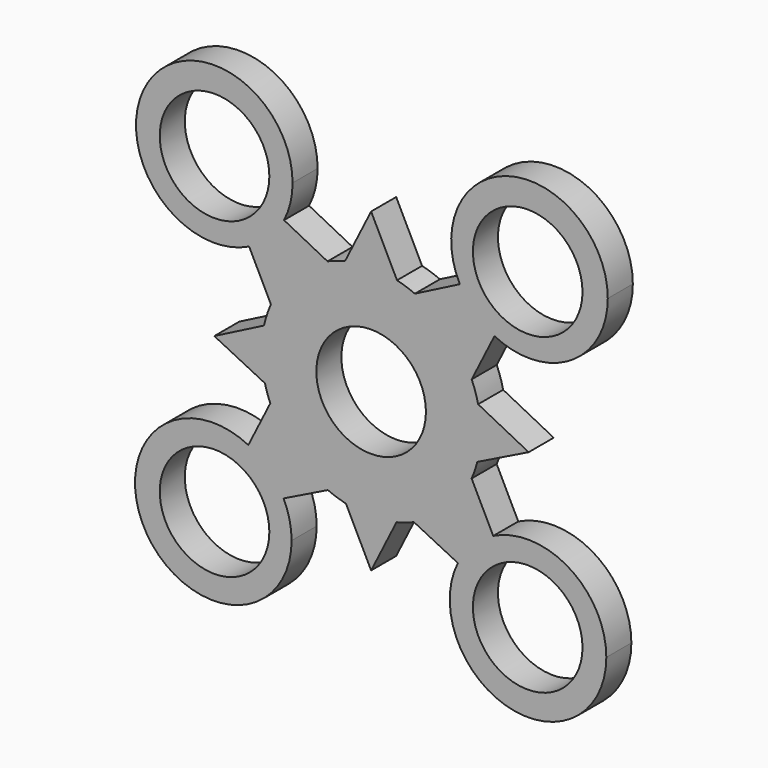
from build123d import *

# Parameters (mm, degrees)
F1_DEPTH = 6.35
F2_R     = 11.1125
F3_DEPTH = 6.351
F4_R     = 21.59
F5_DEPTH = 6.35
F6_R     = 11.1125
F7_DEPTH = 6.351


with BuildPart() as f1:
    # F0 (on Front) → F1 (new body)
    with BuildSketch(Plane.XZ):
        with BuildLine():
            ThreePointArc((21.5257779082, -5.5309592701), (22.0495015704, -2.787490896), (22.225, 0))
            ThreePointArc((22.225, 0), (22.0926198885, 2.4221419162), (21.6970565613, 4.8154295316))
            Line((21.6970565613, 4.8154295316), (19.0545663115, 6.1626660745))
            Line((19.0545663115, 6.1626660745), (15.9729558223, 0.0050951573))
            Line((15.9729558223, 0.0050951573), (19.2714315866, -6.6382280738))
            Line((19.2714315866, -6.6382280738), (21.5257779082, -5.5309592701))
        make_face()
        with BuildLine():
            ThreePointArc((21.6970565613, 4.8154295316), (22.0926198885, 2.4221419162), (22.225, 0))
            ThreePointArc((22.225, 0), (22.0495015704, -2.787490896), (21.5257779082, -5.5309592701))
            Line((21.5257779082, -5.5309592701), (31.9489983919, -0.411379033))
            Line((31.9489983919, -0.411379033), (21.6970565613, 4.8154295316))
        make_face()
        with BuildLine():
            Line((19.0545663115, 6.1626660745), (21.6970565613, 4.8154295316))
            ThreePointArc((21.6970565613, 4.8154295316), (21.1407372397, 6.8571024464), (20.3927661329, 8.836612159))
            Line((20.3927661329, 8.836612159), (19.0545663115, 6.1626660745))
        make_face()
        with BuildLine():
            ThreePointArc((20.3788557045, -8.8686450586), (21.0186730351, -7.2226040208), (21.5257779082, -5.5309592701))
            Line((21.5257779082, -5.5309592701), (19.2714315866, -6.6382280738))
            Line((19.2714315866, -6.6382280738), (20.3788557045, -8.8686450586))
        make_face()
        with BuildLine():
            Line((19.0545663115, 6.1626660745), (20.3927661329, 8.836612159))
            ThreePointArc((20.3927661329, 8.836612159), (18.3482240517, 12.5416625352), (15.6384904833, 15.7920309144))
            Line((15.6384904833, 15.7920309144), (10.6233306163, 10.7795534064))
            Line((10.6233306163, 10.7795534064), (10.8349616789, 10.3533160607))
            Line((10.8349616789, 10.3533160607), (19.0545663115, 6.1626660745))
        make_face()
        with BuildLine():
            ThreePointArc((15.6384904833, 15.7920309144), (18.3482240517, 12.5416625352), (20.3927661329, 8.836612159))
            Line((20.3927661329, 8.836612159), (25.0104148101, 18.0634431618))
            ThreePointArc((25.0104148101, 18.0634431618), (22.8287799548, 19.3843441725), (20.8868182159, 21.0375515781))
            Line((20.8868182159, 21.0375515781), (15.6384904833, 15.7920309144))
        make_face()
        with BuildLine():
            Line((24.7600884642, -17.6927042464), (20.3788557045, -8.8686450586))
            ThreePointArc((20.3788557045, -8.8686450586), (18.3698756369, -12.509927821), (15.7177018967, -15.7131942038))
            Line((15.7177018967, -15.7131942038), (20.628024747, -20.6528413462))
            ThreePointArc((20.628024747, -20.6528413462), (22.5748134031, -19.0063208739), (24.7600884642, -17.6927042464))
        make_face()
        with BuildLine():
            ThreePointArc((15.7177018967, -15.7131942038), (18.3698756369, -12.509927821), (20.3788557045, -8.8686450586))
            Line((20.3788557045, -8.8686450586), (19.2714315866, -6.6382280738))
            Line((19.2714315866, -6.6382280738), (10.8220572797, -10.7883129526))
            Line((10.8220572797, -10.7883129526), (15.7177018967, -15.7131942038))
        make_face()
        with BuildLine():
            Line((10.6233306163, 10.7795534064), (15.6384904833, 15.7920309144))
            ThreePointArc((15.6384904833, 15.7920309144), (12.4668681814, 18.3991255974), (8.8698123462, 20.3783476745))
            Line((8.8698123462, 20.3783476745), (6.4671831136, 19.1502777135))
            Line((6.4671831136, 19.1502777135), (10.6233306163, 10.7795534064))
        make_face()
        with BuildLine():
            ThreePointArc((8.8698123462, 20.3783476745), (12.4668681814, 18.3991255974), (15.6384904833, 15.7920309144))
            Line((15.6384904833, 15.7920309144), (20.8868182159, 21.0375515781))
            ThreePointArc((20.8868182159, 21.0375515781), (19.2767105193, 22.9222920615), (17.9796318988, 25.0347031334))
            Line((17.9796318988, 25.0347031334), (8.8698123462, 20.3783476745))
        make_face()
        with BuildLine():
            Line((32.1151407006, 32.2598685929), (25.0104148101, 18.0634431618))
            ThreePointArc((25.0104148101, 18.0634431618), (40.4586442059, 18.7542558984), (47.9901407006, 32.2598685929))
            ThreePointArc((47.9901407006, 32.2598685929), (28.3993350831, 47.6938704594), (17.9796318988, 25.0347031334))
            Line((17.9796318988, 25.0347031334), (32.1151407006, 32.2598685929))
        make_face()
        with BuildLine():
            ThreePointArc((20.8868182159, 21.0375515781), (22.8287799548, 19.3843441725), (25.0104148101, 18.0634431618))
            Line((25.0104148101, 18.0634431618), (32.1151407006, 32.2598685929))
            Line((32.1151407006, 32.2598685929), (20.8868182159, 21.0375515781))
        make_face()
        with BuildLine():
            Line((20.628024747, -20.6528413462), (15.7177018967, -15.7131942038))
            ThreePointArc((15.7177018967, -15.7131942038), (12.4300167123, -18.4240416177), (8.6854055581, -20.4576234028))
            Line((8.6854055581, -20.4576234028), (17.5930772423, -24.8678233961))
            ThreePointArc((17.5930772423, -24.8678233961), (18.9370013071, -22.6353699906), (20.628024747, -20.6528413462))
        make_face()
        with BuildLine():
            ThreePointArc((8.6854055581, -20.4576234028), (12.4300167123, -18.4240416177), (15.7177018967, -15.7131942038))
            Line((15.7177018967, -15.7131942038), (10.8220572797, -10.7883129526))
            Line((10.8220572797, -10.7883129526), (10.4895712426, -10.9516203438))
            Line((10.4895712426, -10.9516203438), (6.3186403483, -19.2858348275))
            Line((6.3186403483, -19.2858348275), (8.6854055581, -20.4576234028))
        make_face()
        with BuildLine():
            Line((31.8198764616, -31.9115304439), (24.7600884642, -17.6927042464))
            ThreePointArc((24.7600884642, -17.6927042464), (22.5748134031, -19.0063208739), (20.628024747, -20.6528413462))
            Line((20.628024747, -20.6528413462), (31.8198764616, -31.9115304439))
        make_face()
        with BuildLine():
            ThreePointArc((47.6948764616, -31.9115304439), (40.1847282398, -18.4191296297), (24.7600884642, -17.6927042464))
            Line((24.7600884642, -17.6927042464), (31.8198764616, -31.9115304439))
            Line((31.8198764616, -31.9115304439), (17.5930772423, -24.8678233961))
            ThreePointArc((17.5930772423, -24.8678233961), (28.2028896359, -47.3689892034), (47.6948764616, -31.9115304439))
        make_face()
        with BuildLine():
            Line((6.4671831136, 19.1502777135), (8.8698123462, 20.3783476745))
            ThreePointArc((8.8698123462, 20.3783476745), (7.0876895336, 21.0645503649), (5.2532383322, 21.5952335487))
            Line((5.2532383322, 21.5952335487), (6.4671831136, 19.1502777135))
        make_face()
        with BuildLine():
            ThreePointArc((17.9796318988, 25.0347031334), (19.2767105193, 22.9222920615), (20.8868182159, 21.0375515781))
            Line((20.8868182159, 21.0375515781), (32.1151407006, 32.2598685929))
            Line((32.1151407006, 32.2598685929), (17.9796318988, 25.0347031334))
        make_face()
        with BuildLine():
            ThreePointArc((5.1505038225, -21.619966128), (6.9423236203, -21.1129052418), (8.6854055581, -20.4576234028))
            Line((8.6854055581, -20.4576234028), (6.3186403483, -19.2858348275))
            Line((6.3186403483, -19.2858348275), (5.1505038225, -21.619966128))
        make_face()
        with BuildLine():
            Line((31.8198764616, -31.9115304439), (20.628024747, -20.6528413462))
            ThreePointArc((20.628024747, -20.6528413462), (18.9370013071, -22.6353699906), (17.5930772423, -24.8678233961))
            Line((17.5930772423, -24.8678233961), (31.8198764616, -31.9115304439))
        make_face()
        with BuildLine():
            Line((6.4671831136, 19.1502777135), (5.2532383322, 21.5952335487))
            ThreePointArc((5.2532383322, 21.5952335487), (-0.0218444781, 22.2249892648), (-5.2956791501, 21.5848652379))
            Line((-5.2956791501, 21.5848652379), (-6.4940514809, 19.1882700525))
            Line((-6.4940514809, 19.1882700525), (0.0320288973, 15.8610396236))
            Line((0.0320288973, 15.8610396236), (6.4671831136, 19.1502777135))
        make_face()
        with BuildLine():
            ThreePointArc((-5.2956791501, 21.5848652379), (-0.0218444781, 22.2249892648), (5.2532383322, 21.5952335487))
            Line((5.2532383322, 21.5952335487), (0, 32.1755629932))
            Line((0, 32.1755629932), (-5.2956791501, 21.5848652379))
        make_face()
        with BuildLine():
            Line((0, -31.9115304439), (5.1505038225, -21.619966128))
            ThreePointArc((5.1505038225, -21.619966128), (0.0213004103, -22.2249897929), (-5.1090532865, -21.6297988783))
            Line((-5.1090532865, -21.6297988783), (0, -31.9115304439))
        make_face()
        with BuildLine():
            ThreePointArc((-5.1090532865, -21.6297988783), (0.0213004103, -22.2249897929), (5.1505038225, -21.619966128))
            Line((5.1505038225, -21.619966128), (6.3186403483, -19.2858348275))
            Line((6.3186403483, -19.2858348275), (-0.054424676, -16.1305219328))
            Line((-0.054424676, -16.1305219328), (-6.3139432909, -19.2050139139))
            Line((-6.3139432909, -19.2050139139), (-5.1090532865, -21.6297988783))
        make_face()
        with BuildLine():
            Line((-6.4940514809, 19.1882700525), (-5.2956791501, 21.5848652379))
            ThreePointArc((-5.2956791501, 21.5848652379), (-7.096810048, 21.0614793436), (-8.8473961867, 20.3880898006))
            Line((-8.8473961867, 20.3880898006), (-6.4940514809, 19.1882700525))
        make_face()
        with BuildLine():
            Line((-10.6715967815, 10.8337005282), (-6.4940514809, 19.1882700525))
            Line((-6.4940514809, 19.1882700525), (-8.8473961867, 20.3880898006))
            ThreePointArc((-8.8473961867, 20.3880898006), (-12.4455878153, 18.4135267923), (-15.6193303309, 15.8109817853))
            Line((-15.6193303309, 15.8109817853), (-10.6715967815, 10.8337005282))
        make_face()
        with BuildLine():
            ThreePointArc((-8.781015481, -20.4167674259), (-6.9714678453, -21.1032997676), (-5.1090532865, -21.6297988783))
            Line((-5.1090532865, -21.6297988783), (-6.3139432909, -19.2050139139))
            Line((-6.3139432909, -19.2050139139), (-8.781015481, -20.4167674259))
        make_face()
        with BuildLine():
            Line((-8.781015481, -20.4167674259), (-6.3139432909, -19.2050139139))
            Line((-6.3139432909, -19.2050139139), (-10.3826021382, -11.0170276563))
            Line((-10.3826021382, -11.0170276563), (-10.9191345383, -10.7513897577))
            Line((-10.9191345383, -10.7513897577), (-15.8003951401, -15.6300396166))
            ThreePointArc((-15.8003951401, -15.6300396166), (-12.5215665079, -18.361944265), (-8.781015481, -20.4167674259))
        make_face()
        with BuildLine():
            ThreePointArc((-15.6193303309, 15.8109817853), (-12.4455878153, 18.4135267923), (-8.8473961867, 20.3880898006))
            Line((-8.8473961867, 20.3880898006), (-17.6608186057, 24.8814894457))
            ThreePointArc((-17.6608186057, 24.8814894457), (-18.9756819297, 22.7402956748), (-20.6119186423, 20.8333856755))
            Line((-20.6119186423, 20.8333856755), (-15.6193303309, 15.8109817853))
        make_face()
        with BuildLine():
            Line((-15.8003951401, -15.6300396166), (-10.9191345383, -10.7513897577))
            Line((-10.9191345383, -10.7513897577), (-19.3721379739, -6.5662966137))
            Line((-19.3721379739, -6.5662966137), (-20.445734464, -8.7133556812))
            ThreePointArc((-20.445734464, -8.7133556812), (-18.4500841999, -12.3913283394), (-15.8003951401, -15.6300396166))
        make_face()
        with BuildLine():
            Line((-19.3721379739, -6.5662966137), (-15.9725433879, 0.2324685173))
            Line((-15.9725433879, 0.2324685173), (-18.9239192092, 6.1719747706))
            Line((-18.9239192092, 6.1719747706), (-21.7121749395, 4.7467972777))
            ThreePointArc((-21.7121749395, 4.7467972777), (-22.2216698648, -0.3847251214), (-21.5348488072, -5.4955356291))
            Line((-21.5348488072, -5.4955356291), (-19.3721379739, -6.5662966137))
        make_face()
        with BuildLine():
            Line((-10.9696125578, 10.2377061481), (-10.6715967815, 10.8337005282))
            Line((-10.6715967815, 10.8337005282), (-15.6193303309, 15.8109817853))
            ThreePointArc((-15.6193303309, 15.8109817853), (-18.2927375193, 12.6224553495), (-20.324953245, 8.9914904543))
            Line((-20.324953245, 8.9914904543), (-18.9239192092, 6.1719747706))
            Line((-18.9239192092, 6.1719747706), (-10.9696125578, 10.2377061481))
        make_face()
        with BuildLine():
            Line((-17.7515357784, -24.8228239325), (-8.781015481, -20.4167674259))
            ThreePointArc((-8.781015481, -20.4167674259), (-12.5215665079, -18.361944265), (-15.8003951401, -15.6300396166))
            Line((-15.8003951401, -15.6300396166), (-20.7722118543, -20.5991971539))
            ThreePointArc((-20.7722118543, -20.5991971539), (-19.0880122112, -22.5866672669), (-17.7515357784, -24.8228239325))
        make_face()
        with BuildLine():
            ThreePointArc((-20.324953245, 8.9914904543), (-18.2927375193, 12.6224553495), (-15.6193303309, 15.8109817853))
            Line((-15.6193303309, 15.8109817853), (-20.6119186423, 20.8333856755))
            ThreePointArc((-20.6119186423, 20.8333856755), (-22.556657753, 19.1883337074), (-24.7394661231, 17.875491826))
            Line((-24.7394661231, 17.875491826), (-20.324953245, 8.9914904543))
        make_face()
        with BuildLine():
            Line((-31.8037703569, 32.0920747732), (-17.6608186057, 24.8814894457))
            ThreePointArc((-17.6608186057, 24.8814894457), (-16.3678547046, 28.3842272877), (-15.9287703569, 32.0920747732))
            ThreePointArc((-15.9287703569, 32.0920747732), (-45.2974995433, 40.4547835236), (-24.7394661231, 17.875491826))
            Line((-24.7394661231, 17.875491826), (-31.8037703569, 32.0920747732))
        make_face()
        with BuildLine():
            ThreePointArc((-20.6119186423, 20.8333856755), (-18.9756819297, 22.7402956748), (-17.6608186057, 24.8814894457))
            Line((-17.6608186057, 24.8814894457), (-31.8037703569, 32.0920747732))
            Line((-31.8037703569, 32.0920747732), (-20.6119186423, 20.8333856755))
        make_face()
        with BuildLine():
            Line((-20.7722118543, -20.5991971539), (-15.8003951401, -15.6300396166))
            ThreePointArc((-15.8003951401, -15.6300396166), (-18.4500841999, -12.3913283394), (-20.445734464, -8.7133556812))
            Line((-20.445734464, -8.7133556812), (-24.900664278, -17.6226596333))
            ThreePointArc((-24.900664278, -17.6226596333), (-22.716375551, -18.9444018915), (-20.7722118543, -20.5991971539))
        make_face()
        with BuildLine():
            Line((-20.445734464, -8.7133556812), (-19.3721379739, -6.5662966137))
            Line((-19.3721379739, -6.5662966137), (-21.5348488072, -5.4955356291))
            ThreePointArc((-21.5348488072, -5.4955356291), (-21.0518629679, -7.1252852982), (-20.445734464, -8.7133556812))
        make_face()
        with BuildLine():
            Line((-21.7121749395, 4.7467972777), (-18.9239192092, 6.1719747706))
            Line((-18.9239192092, 6.1719747706), (-20.324953245, 8.9914904543))
            ThreePointArc((-20.324953245, 8.9914904543), (-21.1254441738, 6.9040736858), (-21.7121749395, 4.7467972777))
        make_face()
        with BuildLine():
            Line((-32.000534339, -31.8215141687), (-17.7515357784, -24.8228239325))
            ThreePointArc((-17.7515357784, -24.8228239325), (-19.0880122112, -22.5866672669), (-20.7722118543, -20.5991971539))
            Line((-20.7722118543, -20.5991971539), (-32.000534339, -31.8215141687))
        make_face()
        with BuildLine():
            ThreePointArc((-16.125534339, -31.8215141687), (-16.5373768809, -28.2289682155), (-17.7515357784, -24.8228239325))
            Line((-17.7515357784, -24.8228239325), (-32.000534339, -31.8215141687))
            Line((-32.000534339, -31.8215141687), (-24.900664278, -17.6226596333))
            ThreePointArc((-24.900664278, -17.6226596333), (-45.5047200274, -40.1673271243), (-16.125534339, -31.8215141687))
        make_face()
        with BuildLine():
            ThreePointArc((-24.7394661231, 17.875491826), (-22.556657753, 19.1883337074), (-20.6119186423, 20.8333856755))
            Line((-20.6119186423, 20.8333856755), (-31.8037703569, 32.0920747732))
            Line((-31.8037703569, 32.0920747732), (-24.7394661231, 17.875491826))
        make_face()
        with BuildLine():
            Line((-32.000534339, -31.8215141687), (-20.7722118543, -20.5991971539))
            ThreePointArc((-20.7722118543, -20.5991971539), (-22.716375551, -18.9444018915), (-24.900664278, -17.6226596333))
            Line((-24.900664278, -17.6226596333), (-32.000534339, -31.8215141687))
        make_face()
        with BuildLine():
            Line((-31.8037703569, -0.411379033), (-21.5348488072, -5.4955356291))
            ThreePointArc((-21.5348488072, -5.4955356291), (-22.2216698648, -0.3847251214), (-21.7121749395, 4.7467972777))
            Line((-21.7121749395, 4.7467972777), (-31.8037703569, -0.411379033))
        make_face()
    extrude(amount=F1_DEPTH)

    # F2 (on Front) → F3 (cut, through all)
    with BuildSketch(Plane.XZ):
        with Locations((-31.75, 31.75)):
            Circle(F2_R)
        with Locations((31.75, 31.75)):
            Circle(F2_R)
        with Locations((31.75, -31.75)):
            Circle(F2_R)
        with Locations((-31.75, -31.75)):
            Circle(F2_R)
        Circle(F2_R)
    extrude(amount=F3_DEPTH, mode=Mode.SUBTRACT)

    # F4 (on Front) → F5 (join)
    with BuildSketch(Plane.XZ):
        Circle(F4_R)
    extrude(amount=F5_DEPTH)

    # F6 (on Front) → F7 (cut, through all)
    with BuildSketch(Plane.XZ):
        Circle(F6_R)
    extrude(amount=F7_DEPTH, mode=Mode.SUBTRACT)


solid = f1.part
